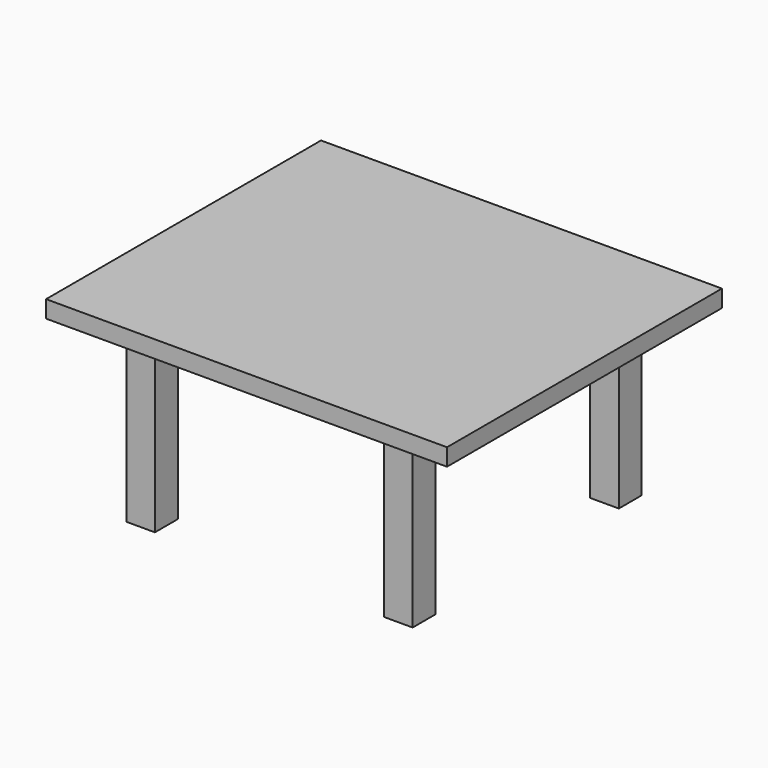
from build123d import *

# Parameters (mm, degrees)
F0_W     = 6.35
F0_H     = 6.35
F1_DEPTH = 19.05
F4_W     = 88.9
F4_H     = 76.2
F4_W_2   = 6.35
F4_H_2   = 6.35
F5_DEPTH = 3.81


with BuildPart() as f1:
    # F0 (on Top) → F1 (new body, symmetric)
    with BuildSketch(Plane.XY):
        with Locations((-28.575, 28.575)):
            Rectangle(F0_W, F0_H)
    extrude(amount=F1_DEPTH, both=True)


with BuildPart() as f2_1:
    # F2: instance of F1
    add(f1.part.mirror(Plane.YZ))


with BuildPart() as f3_1:
    # F3: instance of F1
    add(f1.part.mirror(Plane.XZ))


with BuildPart() as f3_2:
    # F3: instance of F2_1
    add(f2_1.part.mirror(Plane.XZ))


with BuildPart() as f5:
    # F4 (on face) → F5 (new body)
    with BuildSketch(Plane.XY.offset(19.05)):
        Rectangle(F4_W, F4_H)
        with Locations((-28.575, 28.575)):
            Rectangle(F4_W_2, F4_H_2, mode=Mode.SUBTRACT)
        with Locations((-28.575, 28.575)):
            Rectangle(F4_W_2, F4_H_2)
    extrude(amount=F5_DEPTH)


solid = Compound([f1.part, f2_1.part, f3_1.part, f3_2.part, f5.part])
